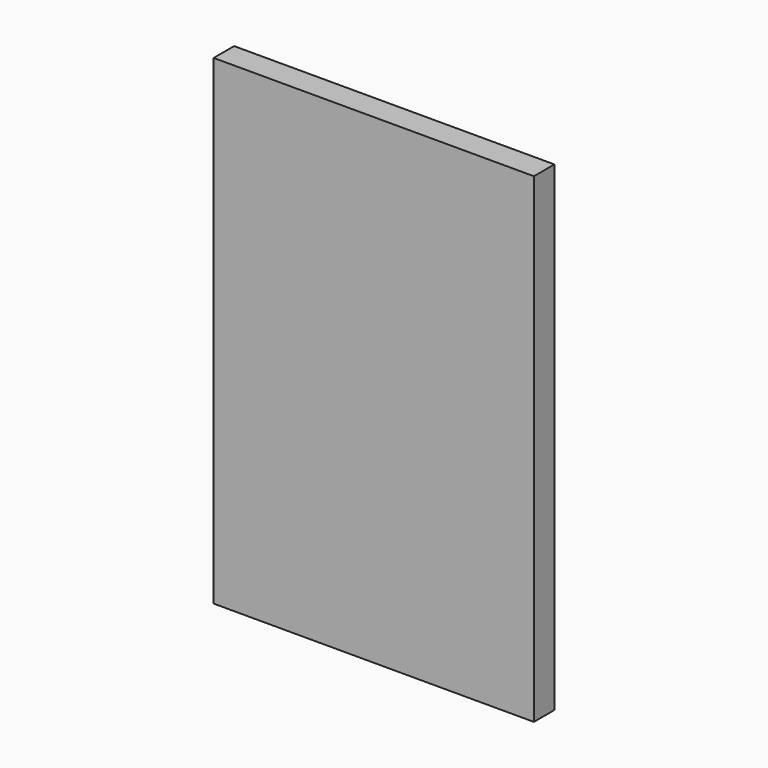
from build123d import *

# Parameters (mm, degrees)
SKETCH_W  = 100
SKETCH_H  = 150
PAD_DEPTH = 8


with BuildPart() as part:
    # Sketch → Pad (new body)
    with BuildSketch(Plane.XZ):
        Rectangle(SKETCH_W, SKETCH_H)
    extrude(amount=PAD_DEPTH)


solid = part.part
